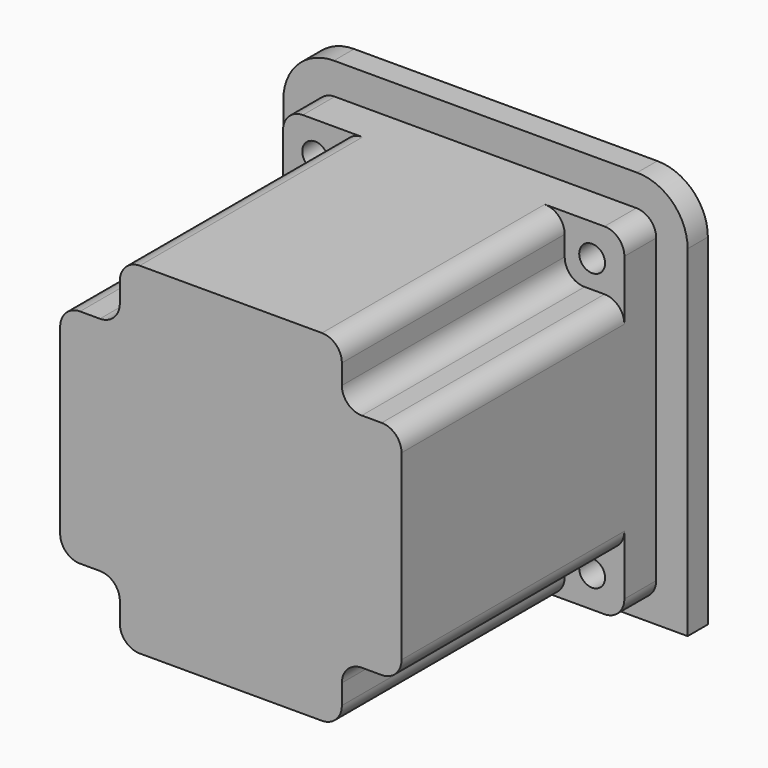
from build123d import *

# Parameters (mm, degrees)
F1_DEPTH  = 80
F2_W      = 15
F2_H      = 15
F3_DEPTH  = 70
F4_R      = 3.25
F5_DEPTH  = 10
F6_R      = 5
F7_R      = 36.5
F8_DEPTH  = 1.6
F9_R      = 7
F10_DEPTH = 35
F13_DEPTH = 5
F14_W     = 101.6
F14_H     = 98.425
F14_R     = 3.25
F14_R_2   = 36.5
F15_DEPTH = 6.35
F16_R     = 12.7


with BuildPart() as f1:
    # F0 (on Front) → F1 (new body)
    with BuildSketch(Plane.XZ):
        with BuildLine():
            Line((37.9, 42.9), (-37.9, 42.9))
            ThreePointArc((-37.9, 42.9), (-41.4355339059, 41.4355339059), (-42.9, 37.9))
            Line((-42.9, 37.9), (-42.9, -37.9))
            ThreePointArc((-42.9, -37.9), (-41.4355339059, -41.4355339059), (-37.9, -42.9))
            Line((-37.9, -42.9), (37.9, -42.9))
            ThreePointArc((37.9, -42.9), (41.4355339059, -41.4355339059), (42.9, -37.9))
            Line((42.9, -37.9), (42.9, 37.9))
            ThreePointArc((42.9, 37.9), (41.4355339059, 41.4355339059), (37.9, 42.9))
        make_face()
    extrude(amount=F1_DEPTH)

    # F2 (on face) → F3 (cut)
    with BuildSketch(Plane.XZ.offset(80)):
        with Locations((35.4, 35.4)):
            Rectangle(F2_W, F2_H)
        with Locations((-35.4, 35.4)):
            Rectangle(F2_W, F2_H)
        with Locations((-35.4, -35.4)):
            Rectangle(F2_W, F2_H)
        with Locations((35.4, -35.4)):
            Rectangle(F2_W, F2_H)
    extrude(amount=-F3_DEPTH, mode=Mode.SUBTRACT)

    # F4 (on face) → F5 (cut, through all)
    with BuildSketch(Plane(origin=(0, 0, 0), x_dir=(-1, 0, 0), z_dir=(0, 1, 0))):
        with Locations((34.8, 34.8)):
            Circle(F4_R)
        with Locations((-34.8, 34.8)):
            Circle(F4_R)
        with Locations((34.8, -34.8)):
            Circle(F4_R)
        with Locations((-34.8, -34.8)):
            Circle(F4_R)
    extrude(amount=-F5_DEPTH, mode=Mode.SUBTRACT)

    # F6
    f6_edges = [f1.edges().sort_by_distance(p)[0] for p in [
        (-42.9, -45, 27.9),
        (-42.9, -45, -27.9),
        (-27.9, -45, -27.9),
        (-27.9, -45, -42.9),
        (27.9, -45, -42.9),
        (-27.9, -45, 42.9),
        (27.9, -45, -27.9),
        (42.9, -45, -27.9),
        (42.9, -45, 27.9),
        (27.9, -45, 42.9),
        (27.9, -45, 27.9),
        (-27.9, -45, 27.9),
    ]]
    fillet(f6_edges, radius=F6_R)

    # F7 (on face) → F8 (join)
    with BuildSketch(Plane(origin=(0, 0, 0), x_dir=(-1, 0, 0), z_dir=(0, 1, 0))):
        Circle(F7_R)
    extrude(amount=F8_DEPTH)

    # F9 (on face) → F10 (join)
    with BuildSketch(Plane(origin=(0, 0, 0), x_dir=(-1, 0, 0), z_dir=(0, 1, 0))):
        Circle(F9_R)
    extrude(amount=F10_DEPTH)

    # F12 (on offset) → F13 (cut)
    with BuildSketch(Plane.YZ.offset(4)):
        with BuildLine():
            Line((35, 2.5), (12.5, 2.5))
            ThreePointArc((12.5, 2.5), (10.732233047, 1.767766953), (10, 0))
            ThreePointArc((10, 0), (10.732233047, -1.767766953), (12.5, -2.5))
            Line((12.5, -2.5), (35, -2.5))
            Line((35, -2.5), (35, 0))
            Line((35, 0), (35, 2.5))
        make_face()
    extrude(amount=F13_DEPTH, mode=Mode.SUBTRACT)


with BuildPart() as f15:
    # F14 (on face) → F15 (new body)
    with BuildSketch(Plane(origin=(0, 0, 0), x_dir=(-1, 0, 0), z_dir=(0, 1, 0))):
        with Locations((0, 1.5875)):
            Rectangle(F14_W, F14_H)
        with Locations((-34.8, -34.8)):
            Circle(F14_R, mode=Mode.SUBTRACT)
        Circle(F14_R_2, mode=Mode.SUBTRACT)
        with Locations((34.8, -34.8)):
            Circle(F14_R, mode=Mode.SUBTRACT)
        with Locations((-34.8, 34.8)):
            Circle(F14_R, mode=Mode.SUBTRACT)
        with Locations((34.8, 34.8)):
            Circle(F14_R, mode=Mode.SUBTRACT)
    extrude(amount=F15_DEPTH)

    # F16
    f16_edges = [f15.edges().sort_by_distance(p)[0] for p in [
        (-50.8, 3.175, 50.8),
        (50.8, 3.175, 50.8),
    ]]
    fillet(f16_edges, radius=F16_R)


solid = Compound([f1.part, f15.part])
